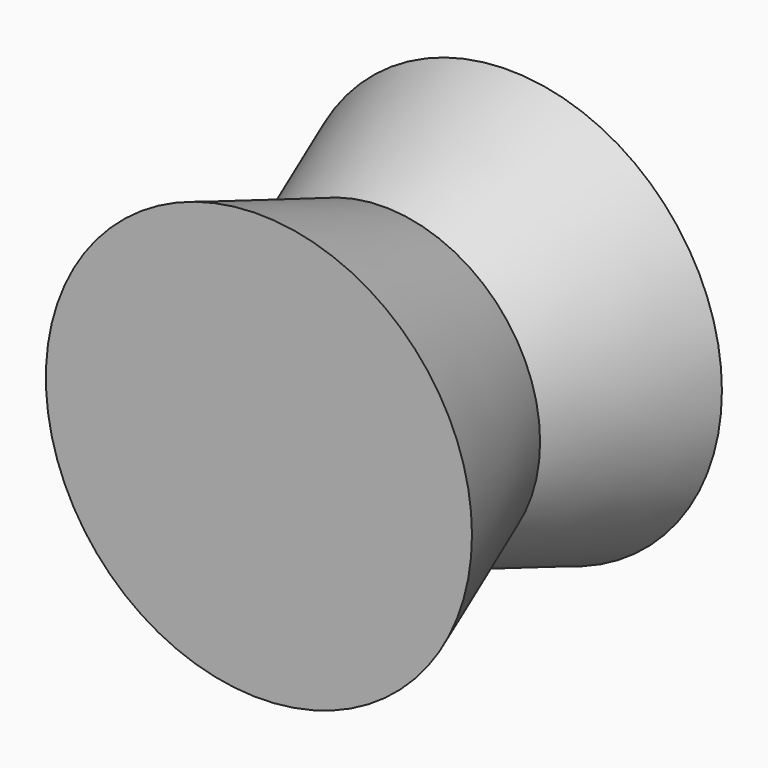
from build123d import *

# Parameters (mm, degrees)
F0_R     = 127
F1_DEPTH = 127
F1_TAPER = -20


with BuildPart() as f1:
    # F0 (on Front) → F1 (new body, symmetric)
    with BuildSketch(Plane.XZ):
        Circle(F0_R)
    extrude(amount=F1_DEPTH, both=True, taper=F1_TAPER)


solid = f1.part
